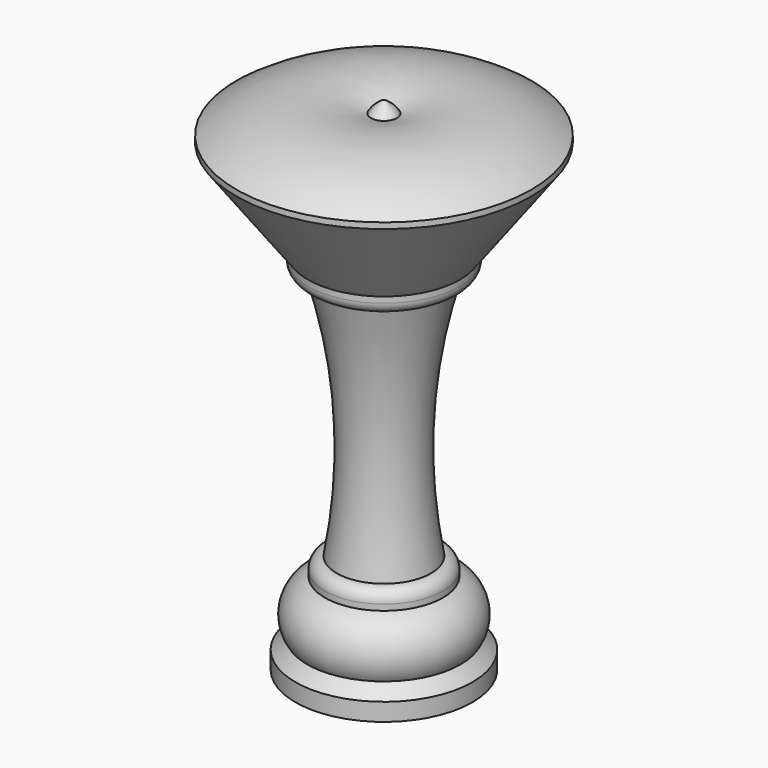
from build123d import *


with BuildPart() as f1:
    # F0 (on Front) → F1 (revolve)
    with BuildSketch(Plane.XZ):
        with BuildLine():
            Line((25, -6.27), (25, -5.27))
            ThreePointArc((25, -5.27), (13.999869, -0.853259), (2.201756, -2))
            ThreePointArc((2.201756, -2), (1.253047, -0.83248), (0, 0))
            Line((0, 0), (0, -85))
            Line((0, -85), (15, -85))
            Line((15, -85), (15, -82))
            Line((15, -82), (13.002306, -80))
            ThreePointArc((13.002306, -80), (13.689754, -74.782464), (10, -71.03))
            Line((10, -71.03), (10, -70.03))
            ThreePointArc((10, -70.03), (9.414214, -68.615786), (8, -68.03))
            ThreePointArc((8, -68.03), (6.68469, -46.668282), (10.450392, -25.6))
            ThreePointArc((10.450392, -25.6), (12.12955, -25.202175), (12.87401, -23.645378))
            Line((12.87401, -23.645378), (12.87401, -22.645378))
            Line((12.87401, -22.645378), (25, -6.27))
        make_face()
    revolve(axis=Axis((0, 0, -42.5), (0, 0, 1)))


solid = f1.part
